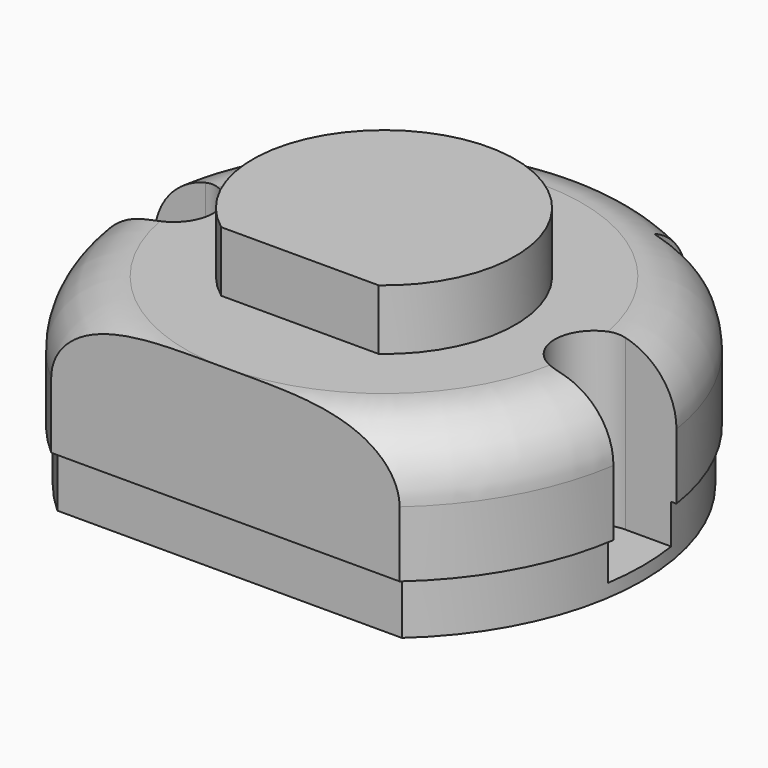
from build123d import *

# Parameters (mm, degrees)
BOX010_W          = 30
BOX010_H          = 10
BOX010_DEPTH      = 30
BOX011_W          = 30
BOX011_H          = 10
BOX011_DEPTH      = 30
CYLINDER003_R     = 10.05
CYLINDER003_DEPTH = 20
FILLET002_R       = 2
THICKNESS_T       = -0.2
BOX017_W          = 20
BOX017_H          = 10
BOX017_DEPTH      = 10
CYLINDER005_R     = 5
CYLINDER005_DEPTH = 3.3
PAD002_DEPTH      = 20
BOX016_W          = 2
BOX016_H          = 2
BOX016_DEPTH      = 2
BOX015_W          = 30
BOX015_H          = 10
BOX015_DEPTH      = 30
BOX013_W          = 30
BOX013_H          = 10
BOX013_DEPTH      = 30
BOX014_W          = 8.5
BOX014_H          = 2.4
BOX014_DEPTH      = 44
BOX012_W          = 30
BOX012_H          = 10
BOX012_DEPTH      = 30
CYLINDER004_R     = 10.05
CYLINDER004_DEPTH = 7
FILLET003_R       = 2.5


with BuildPart() as cubo011:
    # Box010 → Box010 (new body)
    with BuildSketch(Plane(origin=(-15, 7.55, -3), x_dir=(1, 0, 0), z_dir=(0, 0, 1))):
        with Locations((15, 5)):
            Rectangle(BOX010_W, BOX010_H)
    extrude(amount=BOX010_DEPTH)


with BuildPart() as cubo012:
    # Box011 → Box011 (new body)
    with BuildSketch(Plane(origin=(-15, -17.55, -3), x_dir=(1, 0, 0), z_dir=(0, 0, 1))):
        with Locations((15, 5)):
            Rectangle(BOX011_W, BOX011_H)
    extrude(amount=BOX011_DEPTH)


with BuildPart() as thickness:
    # Cylinder003 → Cylinder003 (new body)
    with BuildSketch(Plane.XY):
        Circle(CYLINDER003_R)
    extrude(amount=CYLINDER003_DEPTH)

    # Fillet002
    fillet002_edges = [thickness.edges().sort_by_distance(p)[0] for p in [
        (-10.05, 0, 0),
    ]]
    fillet(fillet002_edges, radius=FILLET002_R)

    # Cut010: cut Cubo012
    add(cubo012.part, mode=Mode.SUBTRACT)

    # Cut011: cut Cubo011
    add(cubo011.part, mode=Mode.SUBTRACT)

    # Thickness
    thickness_openings = [thickness.faces().sort_by_distance(p)[0] for p in [
        (0, 0, 20),
    ]]
    offset(amount=THICKNESS_T, openings=thickness_openings)


with BuildPart() as cubo018:
    # Box017 → Box017 (new body)
    with BuildSketch(Plane(origin=(-10, -14, -3), x_dir=(1, 0, 0), z_dir=(0, 0, 1))):
        with Locations((10, 5)):
            Rectangle(BOX017_W, BOX017_H)
    extrude(amount=BOX017_DEPTH)


with BuildPart() as obj1:
    # Cylinder005 → Cylinder005 (new body)
    with BuildSketch(Plane.XY):
        Circle(CYLINDER005_R)
    extrude(amount=CYLINDER005_DEPTH)

    # Cut017: cut Cubo018
    add(cubo018.part, mode=Mode.SUBTRACT)


with BuildPart() as obj1_1:
    # Cut017 placement: moved
    add(obj1.part.moved(Location((0, 0, 6))))


with BuildPart() as pad002:
    # Sketch002 → Pad002 (new body)
    with BuildSketch(Plane.XY):
        with BuildLine():
            ThreePointArc((-10, 1.5), (-11.5, 0), (-10, -1.5))
            Line((-10, -1.5), (10, -1.5))
            ThreePointArc((10, -1.5), (11.5, 0), (10, 1.5))
            Line((-10, 1.5), (10, 1.5))
        make_face()
    extrude(amount=PAD002_DEPTH)


with BuildPart() as clone_of_pad004:
    # Clone004 base: copy of Pad002
    add(pad002.part)


with BuildPart() as clone_of_pad004_1:
    # Clone004 placement: moved
    add(clone_of_pad004.part.moved(Location((18, 0, 0.5))))


with BuildPart() as clone_of_pad003:
    # Clone003 base: copy of Pad002
    add(pad002.part)


with BuildPart() as clone_of_pad003_1:
    # Clone003 placement: moved
    add(clone_of_pad003.part.moved(Location((-18, 0, 0.5))))


with BuildPart() as cubo017:
    # Box016 → Box016 (new body)
    with BuildSketch(Plane(origin=(-1, 7.6, 3.5), x_dir=(1, 0, 0), z_dir=(0, 0, 1))):
        with Locations((1, 1)):
            Rectangle(BOX016_W, BOX016_H)
    extrude(amount=BOX016_DEPTH)


with BuildPart() as cubo016:
    # Box015 → Box015 (new body)
    with BuildSketch(Plane(origin=(-15, 7.55, -25), x_dir=(1, 0, 0), z_dir=(0, 0, 1))):
        with Locations((15, 5)):
            Rectangle(BOX015_W, BOX015_H)
    extrude(amount=BOX015_DEPTH)


with BuildPart() as cubo014:
    # Box013 → Box013 (new body)
    with BuildSketch(Plane(origin=(-15, -17.55, -3), x_dir=(1, 0, 0), z_dir=(0, 0, 1))):
        with Locations((15, 5)):
            Rectangle(BOX013_W, BOX013_H)
    extrude(amount=BOX013_DEPTH)


with BuildPart() as cubo015:
    # Box014 → Box014 (new body)
    with BuildSketch(Plane(origin=(-4.25, 6.55, -4), x_dir=(1, 0, 0), z_dir=(0, 0, 1))):
        with Locations((4.25, 1.2)):
            Rectangle(BOX014_W, BOX014_H)
    extrude(amount=BOX014_DEPTH)


with BuildPart() as cut012:
    # Box012 → Box012 (new body)
    with BuildSketch(Plane(origin=(-15, 7.55, -3), x_dir=(1, 0, 0), z_dir=(0, 0, 1))):
        with Locations((15, 5)):
            Rectangle(BOX012_W, BOX012_H)
    extrude(amount=BOX012_DEPTH)

    # Cut012: cut Cubo015
    add(cubo015.part, mode=Mode.SUBTRACT)


with BuildPart() as cut012_1:
    # Cut012 placement: moved
    add(cut012.part.moved(Location((0, 0, -12))))


with BuildPart() as tapa:
    # Cylinder004 → Cylinder004 (new body)
    with BuildSketch(Plane.XY):
        Circle(CYLINDER004_R)
    extrude(amount=CYLINDER004_DEPTH)

    # Fillet003
    fillet003_edges = [tapa.edges().sort_by_distance(p)[0] for p in [
        (-10.05, 0, 7),
    ]]
    fillet(fillet003_edges, radius=FILLET003_R)

    # Cut013: cut Cut012
    add(cut012_1.part, mode=Mode.SUBTRACT)

    # Cut014: cut Cubo014
    add(cubo014.part, mode=Mode.SUBTRACT)

    # Cut015: cut Cubo016
    add(cubo016.part, mode=Mode.SUBTRACT)

    # Cut016: cut Cubo017
    add(cubo017.part, mode=Mode.SUBTRACT)

    # Cut018: cut Clone of Pad003
    add(clone_of_pad003_1.part, mode=Mode.SUBTRACT)

    # Cut019: cut Clone of Pad004
    add(clone_of_pad004_1.part, mode=Mode.SUBTRACT)

    # Fusion002: union obj1
    add(obj1_1.part)


with BuildPart() as tapa_1:
    # Fusion002 placement: moved
    add(tapa.part.moved(Location((0, 0, 18))))

    # Cut020: cut Thickness
    add(thickness.part, mode=Mode.SUBTRACT)


solid = tapa_1.part
